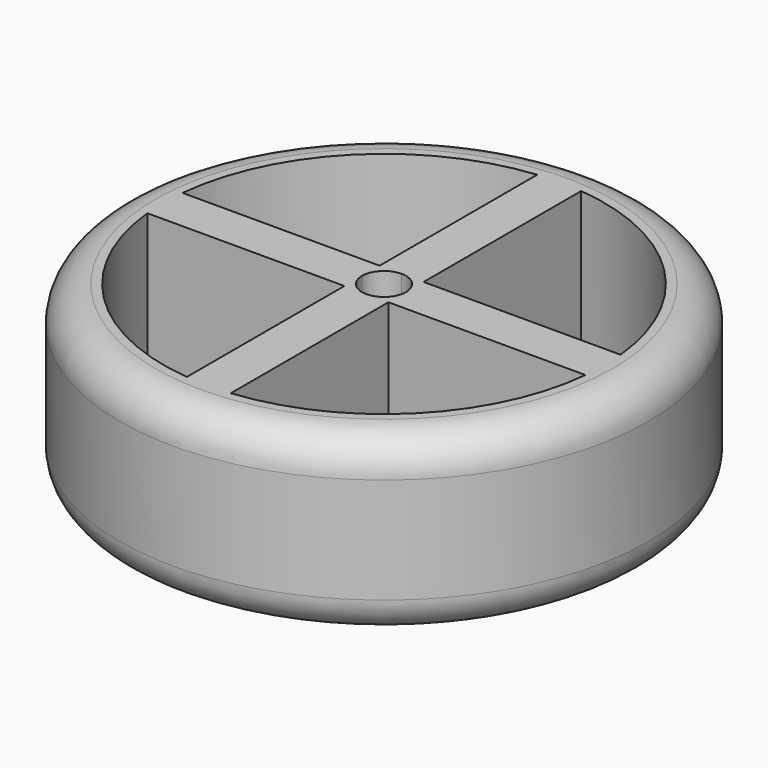
from build123d import *

# Parameters (mm, degrees)
F0_R     = 38.1
F1_DEPTH = 25.4
F2_R     = 5.08


with BuildPart() as f1:
    # F0 (on Top) → F1 (new body)
    with BuildSketch(Plane.XY):
        Circle(F0_R)
        with BuildLine():
            ThreePointArc((-3.175, -31.590851), (-22.45212, -22.44916), (-31.591269, -3.170835))
            Line((-31.591269, -3.170835), (-3.175, -3.170835))
            Line((-3.175, -3.170835), (-3.175, -31.590851))
        make_face(mode=Mode.SUBTRACT)
        with BuildLine():
            Line((3.175, -31.590851), (3.175, -3.170835))
            Line((3.175, -3.170835), (31.591269, -3.170835))
            ThreePointArc((31.591269, -3.170835), (22.45212, -22.44916), (3.175, -31.590851))
        make_face(mode=Mode.SUBTRACT)
        with BuildLine():
            Line((-3.175, 31.590851), (-3.175, 3.175))
            Line((-3.175, 3.175), (-31.590851, 3.175))
            ThreePointArc((-31.590851, 3.175), (-22.45064, 22.45064), (-3.175, 31.590851))
        make_face(mode=Mode.SUBTRACT)
        with BuildLine():
            ThreePointArc((0, 3.175), (2.245064, 2.245064), (3.175, 0))
            ThreePointArc((3.175, 0), (2.301823, -2.186833), (0.162567, -3.170835))
            ThreePointArc((0.162567, -3.170835), (0.08131, -3.173959), (0, -3.175))
            ThreePointArc((0, -3.175), (-0.08131, -3.173959), (-0.162567, -3.170835))
            ThreePointArc((-0.162567, -3.170835), (-2.301823, -2.186833), (-3.175, 0))
            ThreePointArc((-3.175, 0), (-2.245064, 2.245064), (0, 3.175))
        make_face(mode=Mode.SUBTRACT)
        with BuildLine():
            Line((31.590851, 3.175), (3.175, 3.175))
            Line((3.175, 3.175), (3.175, 31.590851))
            ThreePointArc((3.175, 31.590851), (22.45064, 22.45064), (31.590851, 3.175))
        make_face(mode=Mode.SUBTRACT)
    extrude(amount=F1_DEPTH)

    # F2
    f2_edges = [f1.edges().sort_by_distance(p)[0] for p in [
        (-38.1, 0, 0),
        (38.1, 0, 12.7),
        (-38.1, 0, 25.4),
    ]]
    fillet(f2_edges, radius=F2_R)


solid = f1.part
